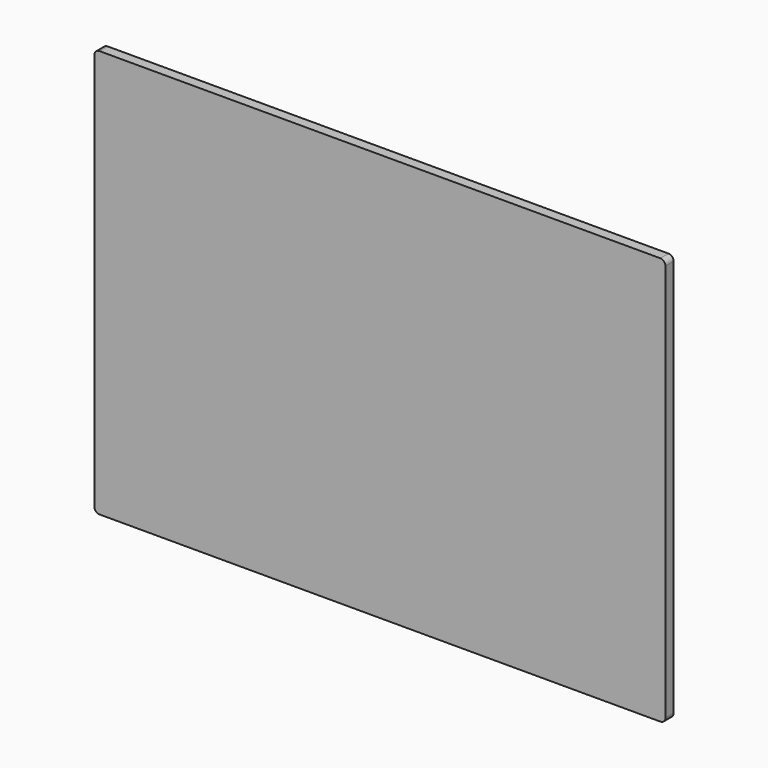
from build123d import *

# Parameters (mm, degrees)
F0_W      = 762
F0_H      = 457.2
F1_DEPTH  = 50.8
F0_W_2    = 1422.4
F0_H_2    = 1016
F1_FACE_W = 762
F1_FACE_H = 457.2
F2_DEPTH  = 25.4
F3_R      = 12.7


with BuildPart() as f1:
    # F0 (on Front) → F1 (new body)
    with BuildSketch(Plane.XZ):
        with Locations((0, -177.8)):
            Rectangle(F0_W, F0_H)
    extrude(amount=-F1_DEPTH)

    # F0 (on Front) + F1_face (on face) → F2 (join)
    with BuildSketch(Plane.XZ):
        Rectangle(F0_W_2, F0_H_2)
        with Locations((0, -177.8)):
            Rectangle(F0_W, F0_H, mode=Mode.SUBTRACT)
    with BuildSketch(Plane(origin=(0, 0, -177.8), x_dir=(1, 0, 0), z_dir=(0, -1, 0))):
        Rectangle(F1_FACE_W, F1_FACE_H)
    extrude(amount=F2_DEPTH)

    # F3
    f3_edges = [f1.edges().sort_by_distance(p)[0] for p in [
        (711.2, -12.7, -508),
        (-711.2, -12.7, -508),
        (-711.2, -12.7, 508),
        (711.2, -12.7, 508),
    ]]
    fillet(f3_edges, radius=F3_R)


solid = f1.part
